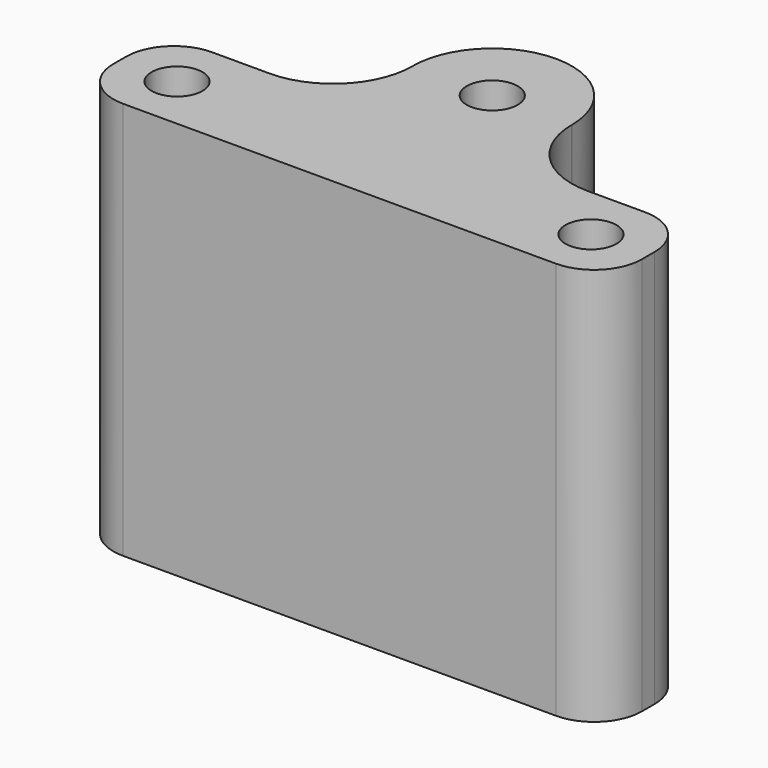
from build123d import *

# Parameters (mm, degrees)
SKETCH_W        = 33.2
SKETCH_H        = 7
SKETCH_R        = 1.6
PAD_DEPTH       = 25
SKETCH001_R     = 1.6
PAD001_DEPTH    = 25
FILLET_R        = 4.99
SKETCH002_W     = 10
SKETCH002_H     = 7.5
POCKET_DEPTH    = 33.201
POCKET001_DEPTH = 2.5
FILLET001_R     = 3


with BuildPart() as part:
    # Sketch → Pad (new body)
    with BuildSketch(Plane.XY):
        Rectangle(SKETCH_W, SKETCH_H)
        with Locations((-13, 0)):
            Circle(SKETCH_R, mode=Mode.SUBTRACT)
        with Locations((13, 0)):
            Circle(SKETCH_R, mode=Mode.SUBTRACT)
    extrude(amount=PAD_DEPTH)

    # Sketch001 (on Face8 of Pad) → Pad001 (join)
    with BuildSketch(Plane.XY.offset(25)):
        with BuildLine():
            ThreePointArc((5, 8.5), (0, 13.5), (-5, 8.5))
            Line((-5, 8.5), (-5, 3.5))
            Line((-5, 3.5), (5, 3.5))
            Line((5, 3.5), (5, 8.5))
        make_face()
        with Locations((0, 8.5)):
            Circle(SKETCH001_R, mode=Mode.SUBTRACT)
    extrude(amount=-PAD001_DEPTH)

    # Fillet
    fillet_edges = [part.edges().sort_by_distance(p)[0] for p in [
        (-5, 3.5, 12.5),
        (5, 3.5, 12.5),
    ]]
    fillet(fillet_edges, radius=FILLET_R)

    # Sketch002 (on Face4 of Fillet) → Pocket (cut, through all)
    with BuildSketch(Plane(origin=(-16.6, 0, 0), x_dir=(0, -1, 0), z_dir=(-1, 0, 0))):
        with Locations((-8.5, 12.5)):
            Rectangle(SKETCH002_W, SKETCH002_H)
    extrude(amount=-POCKET_DEPTH, mode=Mode.SUBTRACT)

    # Sketch004 (on Face6 of Pocket) → Pocket001 (cut)
    with BuildSketch(Plane(origin=(0, 0, 0), x_dir=(1, 0, 0), z_dir=(0, 0, -1))):
        Polygon((2.8, -6.883419), (0, -5.266838), (-2.8, -6.883419), (-2.8, -10.116581), (0, -11.733162), (2.8, -10.116581), align=None)
    extrude(amount=-POCKET001_DEPTH, mode=Mode.SUBTRACT)

    # Fillet001
    fillet001_edges = [part.edges().sort_by_distance(p)[0] for p in [
        (16.6, 3.5, 4.375),
        (16.6, -3.5, 12.5),
        (-16.6, 3.5, 20.625),
        (-16.6, -3.5, 12.5),
    ]]
    fillet(fillet001_edges, radius=FILLET001_R)


solid = part.part
